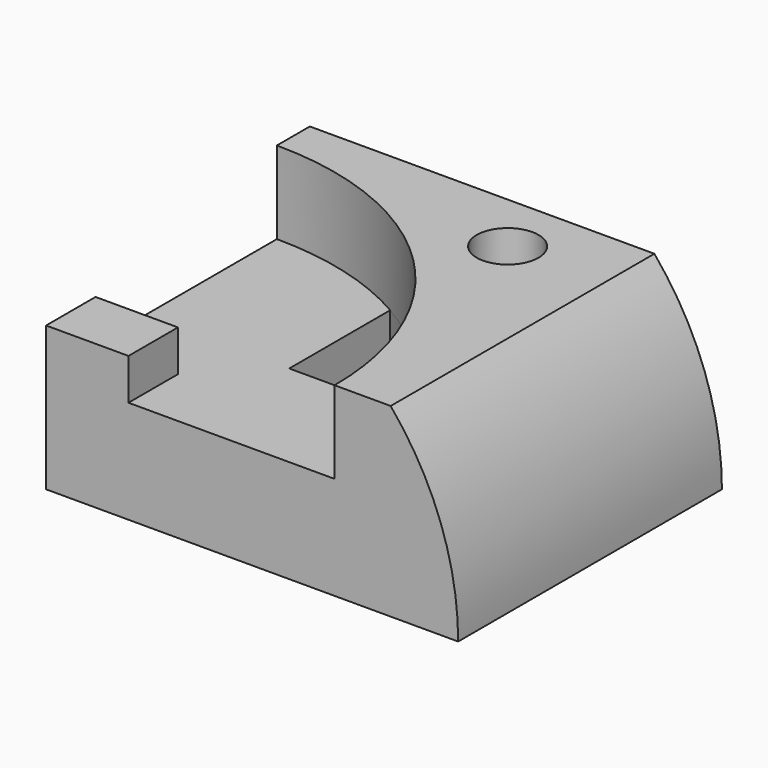
from build123d import *

# Parameters (mm, degrees)
F0_W      = 100
F0_H      = 45
F1_DEPTH  = 80
F2_R      = 70
F3_DEPTH  = 20
F5_DEPTH  = 25.001
F6_W      = 20
F6_H      = 15
F7_DEPTH  = 10
F8_R      = 7.5
F9_DEPTH  = 30
F11_DEPTH = 80.001


with BuildPart() as f1:
    # F0 (on Front) → F1 (new body)
    with BuildSketch(Plane.XZ):
        with Locations((50, 22.5)):
            Rectangle(F0_W, F0_H)
    extrude(amount=F1_DEPTH)

    # F2 (on face) → F3 (cut)
    with BuildSketch(Plane.XY.offset(45)):
        with Locations((0, -80)):
            Circle(F2_R)
    extrude(amount=-F3_DEPTH, mode=Mode.SUBTRACT)

    # F4 (on face) → F5 (cut, through all)
    with BuildSketch(Plane.XY.offset(25)):
        with BuildLine():
            ThreePointArc((63.245553, -50), (51.453576, -32.539179), (35, -19.378222))
            Line((35, -19.378222), (35, -50))
            Line((35, -50), (63.245553, -50))
        make_face()
    extrude(amount=-F5_DEPTH, mode=Mode.SUBTRACT)

    # F6 (on face) → F7 (join)
    with BuildSketch(Plane.XY.offset(25)):
        with Locations((10, -72.5)):
            Rectangle(F6_W, F6_H)
    extrude(amount=F7_DEPTH)

    # F8 (on face) → F9 (cut)
    with BuildSketch(Plane.XY.offset(45)):
        with Locations((60, -15)):
            Circle(F8_R)
    extrude(amount=-F9_DEPTH, mode=Mode.SUBTRACT)

    # F10 (on face) → F11 (cut, through all)
    with BuildSketch(Plane.XZ.offset(80)):
        with BuildLine():
            ThreePointArc((83.619026, 45), (95.777397, 23.944395), (100, 0))
            Line((100, 0), (100, 45))
            Line((100, 45), (83.619026, 45))
        make_face()
    extrude(amount=-F11_DEPTH, mode=Mode.SUBTRACT)


solid = f1.part
